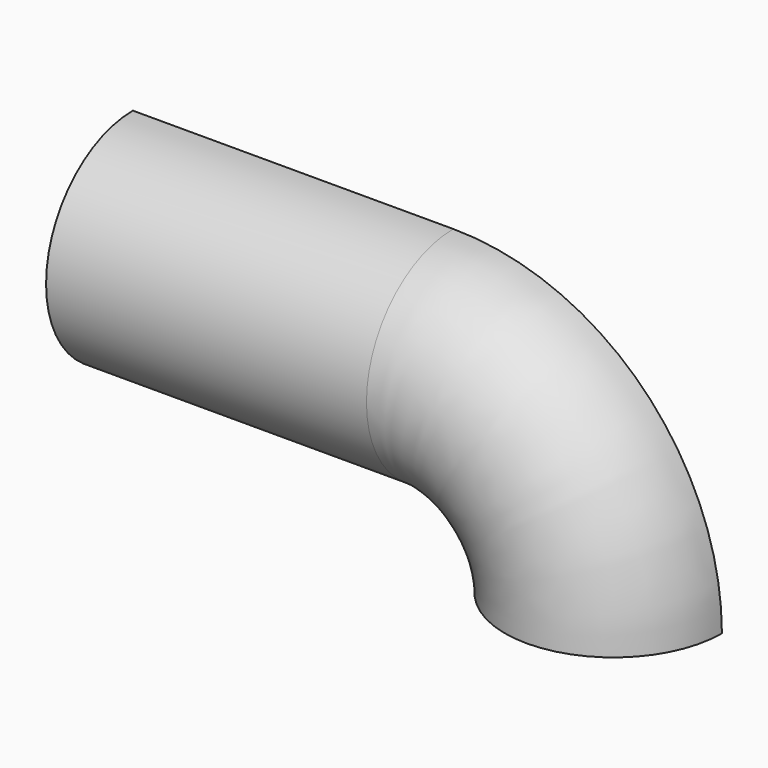
from build123d import *

# Parameters (mm, degrees)
F0_R     = 8.60044
F0_R_2   = 3.2004
F2_ANGLE = 90
F3_DEPTH = 25.4
F4_SIZE2 = 3.582964248
F4_SIZE  = 20.32
F5_W     = 290.7801419497
F5_H     = 55.9114702046
F6_DEPTH = 25.4


with BuildPart() as f2:
    # F0 (on Top) → F2 (revolve)
    with BuildSketch(Plane.XY):
        Circle(F0_R)
        Circle(F0_R_2, mode=Mode.SUBTRACT)
    revolve(axis=Axis((-12.7, -0.6994176656, 0), (0, -1, 0)), revolution_arc=F2_ANGLE)

    # F3 (add): a face of the model
    f3_faces = [f2.faces().sort_by_distance(p)[0] for p in [
        (-12.7, 0, 4.3428171778),
    ]]
    extrude(f3_faces, amount=F3_DEPTH)

    # F4
    f4_edges = [f2.edges().sort_by_distance(p)[0] for p in [
        (-38.1, 0, 9.4996),
    ]]
    f4_side = f2.faces().sort_by_distance((-25.4, 0, 9.4996))[0]
    chamfer(f4_edges, length=F4_SIZE, length2=F4_SIZE2, reference=f4_side)

    # F5 (on Front) → F6 (cut)
    with BuildSketch(Plane.XZ):
        with Locations((-2.42703408, 7.5079593807)):
            Rectangle(F5_W, F5_H)
    extrude(amount=-F6_DEPTH, mode=Mode.SUBTRACT)


solid = f2.part
